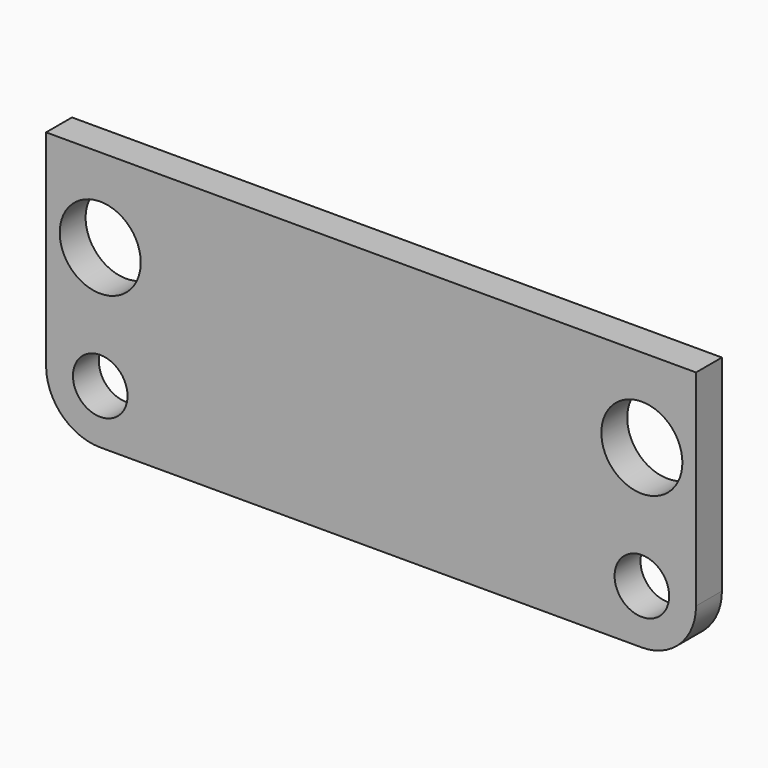
from build123d import *

# Parameters (mm, degrees)
F0_R     = 1.6002
F0_R_2   = 2.375179
F1_DEPTH = 1.89738


with BuildPart() as f1:
    # F0 (on Front) → F1 (new body)
    with BuildSketch(Plane.XZ):
        with BuildLine():
            Line((30.804955, 27.38282), (-7.295045, 27.38282))
            Line((-7.295045, 27.38282), (-7.295045, 15.329635))
            ThreePointArc((-7.295045, 15.329635), (-6.365109, 13.084571), (-4.120045, 12.154635))
            Line((-4.120045, 12.154635), (0.667936, 12.154635))
            Line((0.667936, 12.154635), (22.841974, 12.154635))
            Line((22.841974, 12.154635), (27.629955, 12.154635))
            ThreePointArc((27.629955, 12.154635), (29.875019, 13.084571), (30.804955, 15.329635))
            Line((30.804955, 15.329635), (30.804955, 27.38282))
        make_face()
        with Locations((-4.120045, 15.329635)):
            Circle(F0_R, mode=Mode.SUBTRACT)
        with Locations((27.629955, 15.329635)):
            Circle(F0_R, mode=Mode.SUBTRACT)
        with Locations((-4.120045, 22.467641)):
            Circle(F0_R_2, mode=Mode.SUBTRACT)
        with Locations((27.629955, 22.467641)):
            Circle(F0_R_2, mode=Mode.SUBTRACT)
    extrude(amount=F1_DEPTH)


solid = f1.part
